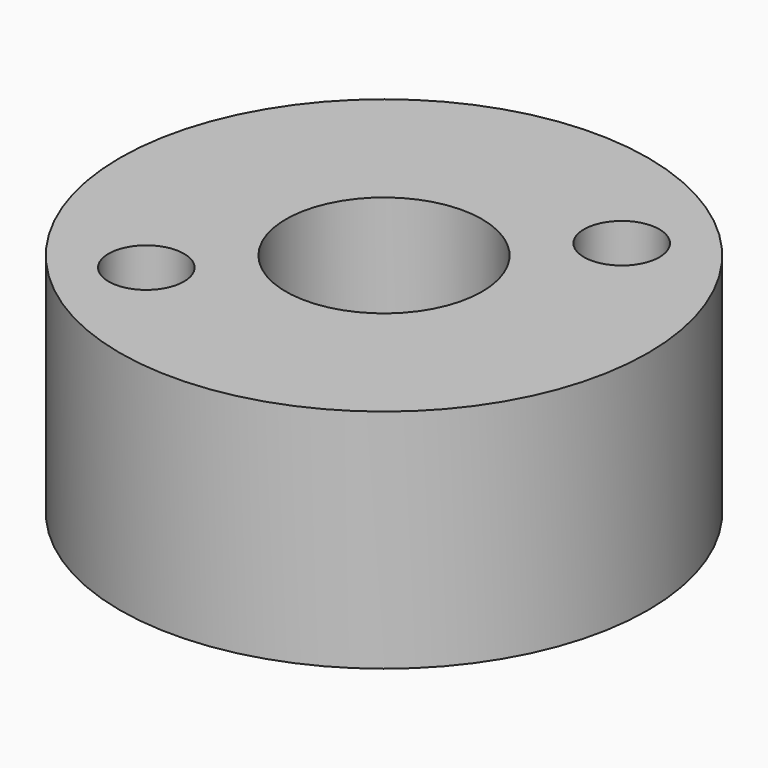
from build123d import *

# Parameters (mm, degrees)
CYLINDER062_R     = 1
CYLINDER062_DEPTH = 20
CYLINDER063_R     = 1
CYLINDER063_DEPTH = 20
CYLINDER067_R     = 2.6
CYLINDER067_DEPTH = 12
CYLINDER068_R     = 7
CYLINDER068_DEPTH = 6


with BuildPart() as obj1:
    # Cylinder062 → Cylinder062 (new body)
    with BuildSketch(Plane(origin=(-3.5, -3.5, 0), x_dir=(1, 0, 0), z_dir=(0, 0, 1))):
        Circle(CYLINDER062_R)
    extrude(amount=CYLINDER062_DEPTH)


with BuildPart() as compound034:
    # Cylinder063 → Cylinder063 (new body)
    with BuildSketch(Plane(origin=(3.5, 3.5, 0), x_dir=(1, 0, 0), z_dir=(0, 0, 1))):
        Circle(CYLINDER063_R)
    extrude(amount=CYLINDER063_DEPTH)

    # Compound034: union obj1
    add(obj1.part)


with BuildPart() as obj2:
    # Cylinder067 → Cylinder067 (new body)
    with BuildSketch(Plane.XY.offset(13)):
        Circle(CYLINDER067_R)
    extrude(amount=CYLINDER067_DEPTH)


with BuildPart() as cut037:
    # Cylinder068 → Cylinder068 (new body)
    with BuildSketch(Plane.XY.offset(13)):
        Circle(CYLINDER068_R)
    extrude(amount=CYLINDER068_DEPTH)

    # Cut036: cut obj2
    add(obj2.part, mode=Mode.SUBTRACT)


with BuildPart() as cut037_1:
    # Cut036 placement: moved
    add(cut037.part.moved(Location((0, 0, -2))))

    # Cut037: cut Compound034
    add(compound034.part, mode=Mode.SUBTRACT)


solid = cut037_1.part
